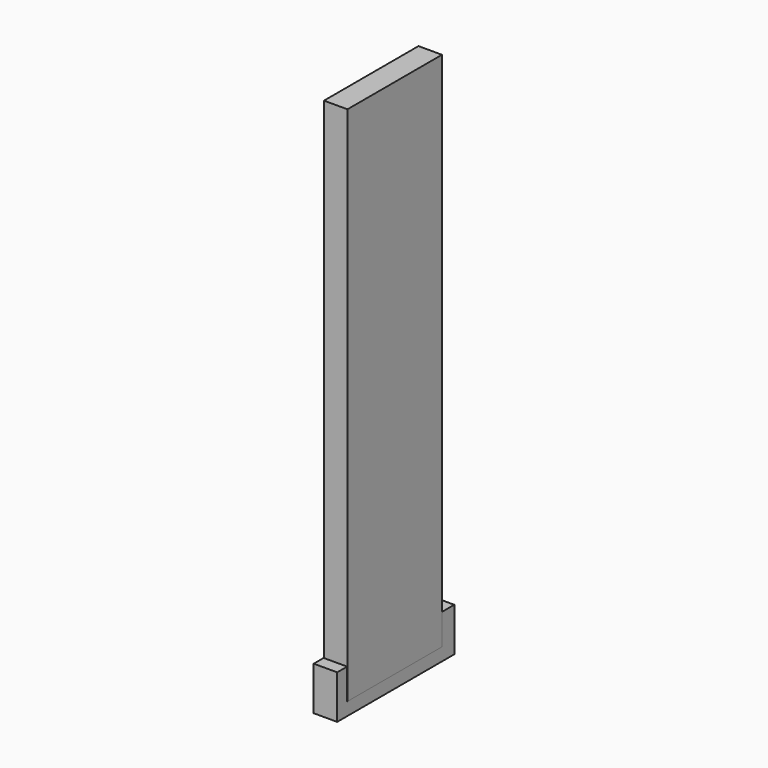
from build123d import *

# Parameters (mm, degrees)
F0_W     = 10.062503
F0_H     = 44.406254
F1_DEPTH = 2
F3_DEPTH = 2


with BuildPart() as f1:
    # F0 (on Right) → F1 (new body)
    with BuildSketch(Plane.YZ):
        with Locations((-1.859374, 0)):
            Rectangle(F0_W, F0_H)
    extrude(amount=F1_DEPTH)


with BuildPart() as f3:
    # F2 (on Right) → F3 (new body)
    with BuildSketch(Plane.YZ):
        Polygon((-6.926551, -19.578125), (-7.984376, -19.578125), (-7.984376, -23.296874), (4.484377, -23.296874), (4.484377, -19.578125), (3.17774, -19.578125), (3.17774, -22.200594), (-6.926551, -22.200594), align=None)
    extrude(amount=F3_DEPTH)


solid = Compound([f1.part, f3.part])
